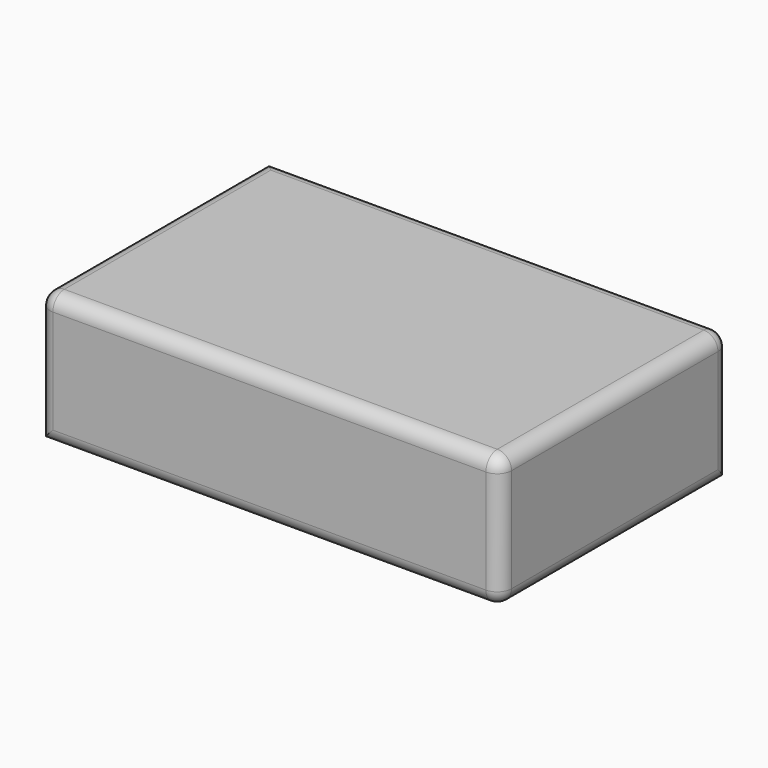
from build123d import *

# Parameters (mm, degrees)
F0_W     = 162.069825
F0_H     = 100.624777
F1_DEPTH = 46.5
F2_R     = 5
F3_W     = 55.878233
F3_H     = 11.453293
F4_DEPTH = 17.7


with BuildPart() as f1:
    # F0 (on Top) → F1 (new body)
    with BuildSketch(Plane.XY):
        with Locations((86.000398, -50.312388)):
            Rectangle(F0_W, F0_H)
    extrude(amount=F1_DEPTH)

    # F2
    f2_edges = [f1.edges().sort_by_distance(p)[0] for p in [
        (4.965486, -50.312389, 46.5),
        (86.000399, -100.624777, 46.5),
        (167.035311, -50.312389, 46.5),
        (86.000399, 0, 46.5),
        (167.035311, -50.312389, 0),
        (167.035311, -100.624777, 23.25),
        (167.035311, 0, 23.25),
        (4.965486, -100.624777, 23.25),
        (86.000399, -100.624777, 0),
    ]]
    fillet(f2_edges, radius=F2_R)

    # F3 (on face) → F4 (join)
    with BuildSketch(Plane.XY.offset(46.5)):
        with Locations((68.088533, -73.464717)):
            Rectangle(F3_W, F3_H)
    extrude(amount=-F4_DEPTH)


solid = f1.part
